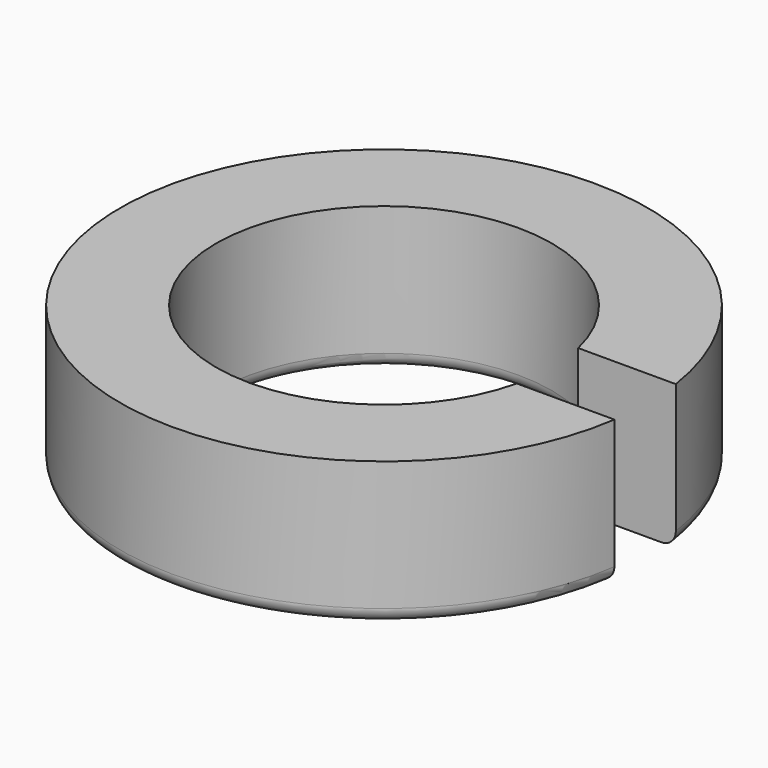
from build123d import *

# Parameters (mm, degrees)
F2_W     = 4.224532
F2_H     = 1.6
F3_DEPTH = 4


with BuildPart() as f1:
    # F0 (on Front) → F1 (revolve)
    with BuildSketch(Plane.XZ):
        with BuildLine():
            ThreePointArc((3.5, 0.3), (3.587868, 0.087868), (3.8, 0))
            Line((3.8, 0), (5.2, 0))
            ThreePointArc((5.2, 0), (5.412132, 0.087868), (5.5, 0.3))
            Line((5.5, 0.3), (5.5, 3))
            Line((5.5, 3), (3.5, 3))
            Line((3.5, 3), (3.5, 0.3))
        make_face()
    revolve(axis=Axis((0, 0, 3.851013), (0, 0, 1)))

    # F2 (on Top) → F3 (cut)
    with BuildSketch(Plane.XY):
        with Locations((4.5, 0)):
            Rectangle(F2_W, F2_H)
    extrude(amount=F3_DEPTH, mode=Mode.SUBTRACT)


solid = f1.part
